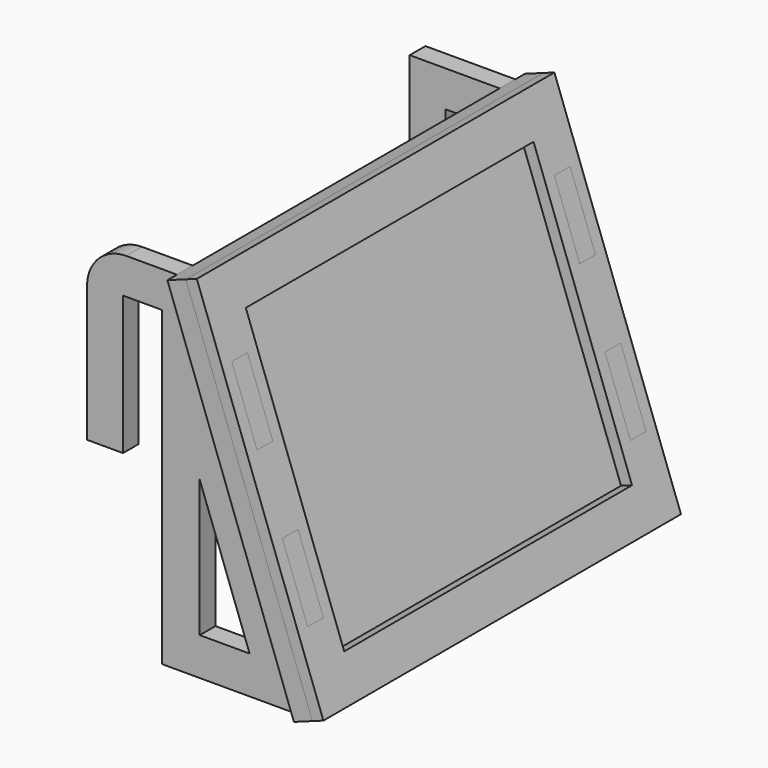
from build123d import *

# Parameters (mm, degrees)
F3_DEPTH  = 5.2
F4_W      = 5.2
F4_H      = 19.5968336801
F5_DEPTH  = 8.3
F7_W      = 118.35
F7_H      = 97.9841684007
F7_W_2    = 5.2
F7_H_2    = 19.5968336801
F8_DEPTH  = 5.2
F9_W      = 118.35
F9_H      = 97.9841684007
F9_W_2    = 5.2
F9_H_2    = 19.5968336801
F9_W_3    = 95.25
F9_H_3    = 76.2
F10_DEPTH = 3.1
F11_R     = 10.3811183182


with BuildPart() as f3:
    # F2 (on offset) → F3 (new body)
    with BuildSketch(Plane.XZ.offset(50.8)):
        Polygon((0, 0), (9.525, 0), (9.525, 36.7260310531), (19.84375, 36.7260310531), (19.84375, -45.8239689469), (57.3250593201, -45.8239689469), (23.8125, 46.2510310531), (0, 46.2510310531), align=None)
        Polygon((29.84375, 0.4422638653), (43.0435792526, -35.8239689469), (29.84375, -35.8239689469), align=None, mode=Mode.SUBTRACT)
    extrude(amount=F3_DEPTH)

    # F4 (on face) → F5 (join)
    with BuildSketch(Plane(origin=(35.891761499, 0, 13.063532841), x_dir=(0, 1, 0), z_dir=(0.9396926208, 0, 0.3420201433))):
        with Locations((-53.4, 5.9221474011)):
            Rectangle(F4_W, F4_H)
        with Locations((-53.4, -33.2715199591)):
            Rectangle(F4_W, F4_H)
    extrude(amount=F5_DEPTH)


with BuildPart() as f6_1:
    # F6: instance of F3
    add(f3.part.mirror(Plane.XZ))


with BuildPart() as f8:
    # F7 (on face) → F8 (new body)
    with BuildSketch(Plane(origin=(35.891761499, 0, 13.063532841), x_dir=(0, 1, 0), z_dir=(0.9396926208, 0, 0.3420201433))):
        with Locations((0, -13.674686279)):
            Rectangle(F7_W, F7_H)
        with Locations((-53.4, -33.2715199591)):
            Rectangle(F7_W_2, F7_H_2, mode=Mode.SUBTRACT)
        with Locations((53.4, -33.2715199591)):
            Rectangle(F7_W_2, F7_H_2, mode=Mode.SUBTRACT)
        with Locations((-53.4, 5.9221474011)):
            Rectangle(F7_W_2, F7_H_2, mode=Mode.SUBTRACT)
        with Locations((53.4, 5.9221474011)):
            Rectangle(F7_W_2, F7_H_2, mode=Mode.SUBTRACT)
    extrude(amount=F8_DEPTH)


with BuildPart() as f10:
    # F9 (on face) → F10 (new body)
    with BuildSketch(Plane(origin=(40.778163127, 0, 14.8420375863), x_dir=(0, 1, 0), z_dir=(0.9396926208, 0, 0.3420201433))):
        with Locations((0, -13.674686279)):
            Rectangle(F9_W, F9_H)
        with Locations((-53.4, -33.2715199591)):
            Rectangle(F9_W_2, F9_H_2, mode=Mode.SUBTRACT)
        with Locations((53.4, -33.2715199591)):
            Rectangle(F9_W_2, F9_H_2, mode=Mode.SUBTRACT)
        with Locations((-53.4, 5.9221474011)):
            Rectangle(F9_W_2, F9_H_2, mode=Mode.SUBTRACT)
        with Locations((0, -13.674686279)):
            Rectangle(F9_W_3, F9_H_3, mode=Mode.SUBTRACT)
        with Locations((53.4, 5.9221474011)):
            Rectangle(F9_W_2, F9_H_2, mode=Mode.SUBTRACT)
    extrude(amount=F10_DEPTH)


with BuildPart() as f3_1:
    add(f3.part)

    # F11
    f11_edges = [f3_1.edges().sort_by_distance(p)[0] for p in [
        (0, -53.4, 46.251031),
    ]]
    fillet(f11_edges, radius=F11_R)


solid = Compound([f6_1.part, f8.part, f10.part, f3_1.part])
